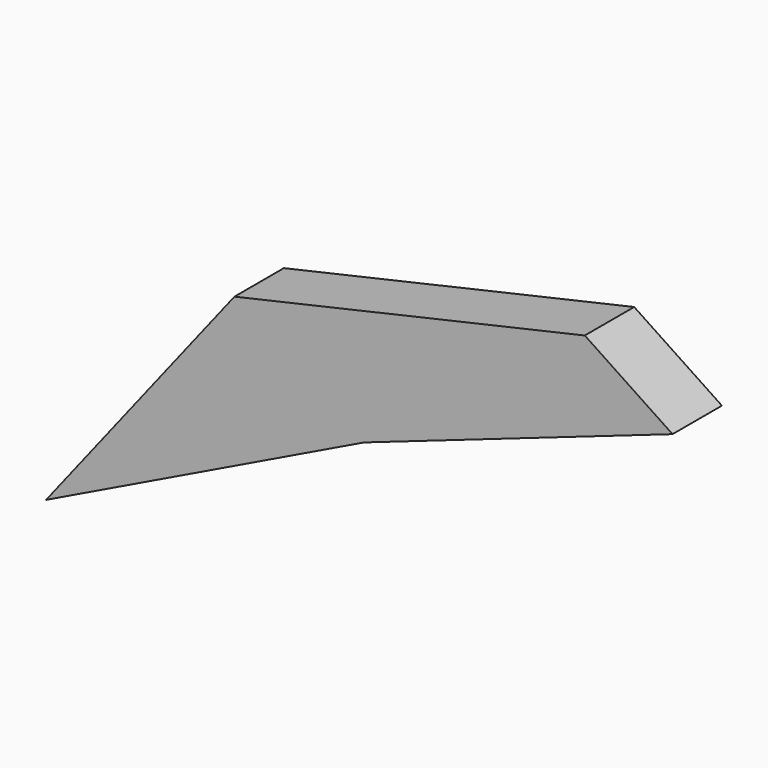
from build123d import *

# Parameters (mm, degrees)
F1_DEPTH = 25.4


with BuildPart() as f1:
    # F0 (on Front) → F1 (new body)
    with BuildSketch(Plane.XZ):
        Polygon((-130.822942, -63.342907), (0, 0), (-53.333733, 35.463728), align=None)
        Polygon((-53.333733, 35.463728), (0, 0), (126.89946, 44.269524), (90.807401, 68.268575), align=None)
    extrude(amount=F1_DEPTH)


solid = f1.part
